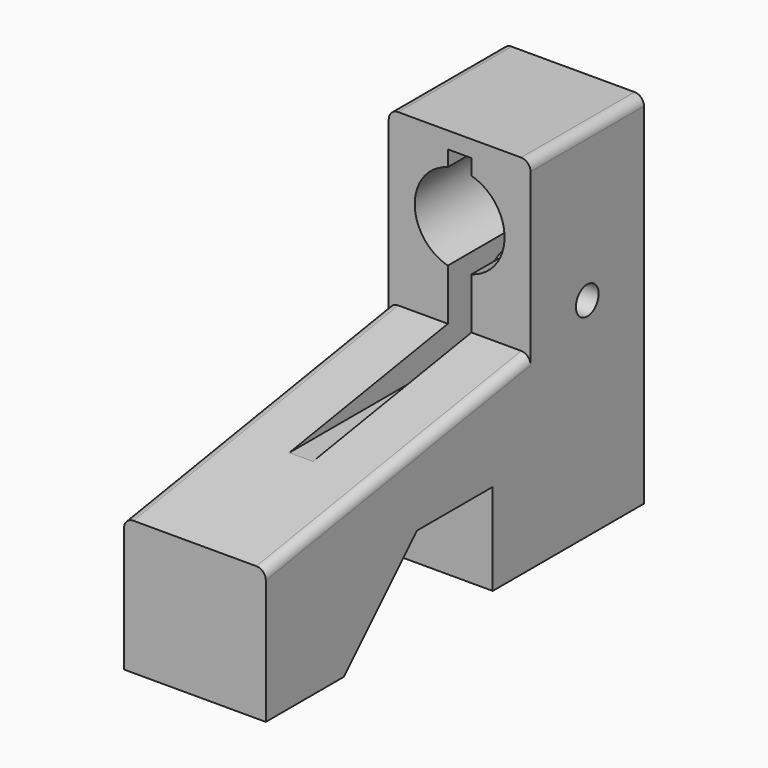
from build123d import *

# Parameters (mm, degrees)
SKETCH_W        = 15
SKETCH_H        = 50
PAD_DEPTH       = 38
SKETCH001_R     = 4.75
POCKET_DEPTH    = 50.001
POCKET001_DEPTH = 15.001
POCKET002_DEPTH = 15.001
SKETCH005_W     = 2.5
SKETCH005_H     = 19.729757
POCKET003_DEPTH = 50.001
SKETCH006_R     = 1.5
POCKET004_DEPTH = 15.001
SKETCH007_R     = 1.875
POCKET005_DEPTH = 7
FILLET_R        = 1


with BuildPart() as part:
    # Sketch → Pad (new body)
    with BuildSketch(Plane.XY):
        Rectangle(SKETCH_W, SKETCH_H)
    extrude(amount=PAD_DEPTH)

    # Sketch001 (on Face3 of Pad) → Pocket (cut, through all)
    with BuildSketch(Plane.XZ.offset(25)):
        with Locations((0, 30)):
            Circle(SKETCH001_R)
    extrude(amount=-POCKET_DEPTH, mode=Mode.SUBTRACT)

    # Sketch003 (on Face5 of Pocket) → Pocket001 (cut, through all)
    with BuildSketch(Plane.YZ.offset(7.5)):
        Polygon((10, 42.759873), (10, 20), (-31.063036, 13.17035), (-31.063036, 49.393513), align=None)
    extrude(amount=-POCKET001_DEPTH, mode=Mode.SUBTRACT)

    # Sketch004 (on Face2 of Pocket001) → Pocket002 (cut, through all)
    with BuildSketch(Plane(origin=(-7.5, 0, 0), x_dir=(0, -1, 0), z_dir=(-1, 0, 0))):
        Polygon((18.707549, -4.016844), (5, 9.690705), (-5, 9.690705), (-5, -5.466326), align=None)
    extrude(amount=-POCKET002_DEPTH, mode=Mode.SUBTRACT)

    # Sketch005 (on Face1 of Pocket002) → Pocket003 (cut, through all)
    with BuildSketch(Plane(origin=(0, 25, 0), x_dir=(-1, 0, 0), z_dir=(0, 1, 0))):
        with Locations((0, 26.377617)):
            Rectangle(SKETCH005_W, SKETCH005_H)
    extrude(amount=-POCKET003_DEPTH, mode=Mode.SUBTRACT)

    # Sketch006 (on Face2 of Pocket003) → Pocket004 (cut, through all)
    with BuildSketch(Plane(origin=(-7.5, 0, 0), x_dir=(0, -1, 0), z_dir=(-1, 0, 0))):
        with Locations((-17.5, 21.974657)):
            Circle(SKETCH006_R)
    extrude(amount=-POCKET004_DEPTH, mode=Mode.SUBTRACT)

    # Sketch007 (on Face2 of Pocket004) → Pocket005 (cut)
    with BuildSketch(Plane(origin=(-7.5, 0, 0), x_dir=(0, -1, 0), z_dir=(-1, 0, 0))):
        with Locations((-17.5, 21.974657)):
            Circle(SKETCH007_R)
    extrude(amount=-POCKET005_DEPTH, mode=Mode.SUBTRACT)

    # Fillet
    fillet_edges = [part.edges().sort_by_distance(p)[0] for p in [
        (-7.5, 17.5, 38),
        (7.5, 17.5, 38),
        (7.5, -7.5, 17.08938),
        (-7.5, -7.5, 17.08938),
    ]]
    fillet(fillet_edges, radius=FILLET_R)


solid = part.part
